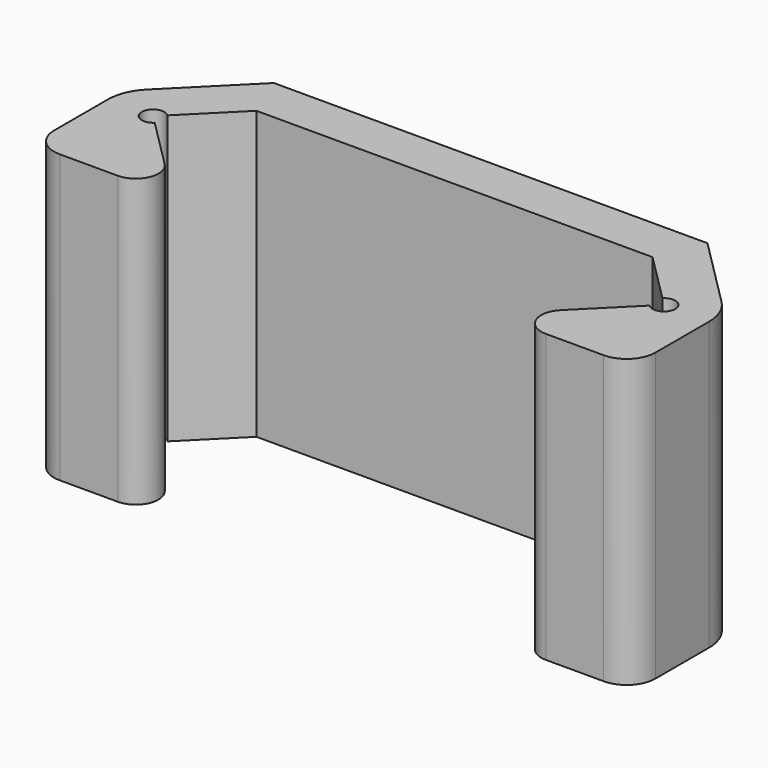
from build123d import *

# Parameters (mm, degrees)
F1_DEPTH = 12.7


with BuildPart() as f1:
    # F0 (on Top) → F1 (new body)
    with BuildSketch(Plane.XY):
        with BuildLine():
            ThreePointArc((0.353553, -0.353553), (-0.5, 0), (0.353553, 0.353553))
            Line((0.353553, 0.353553), (2.54, 2.54))
            Line((2.54, 2.54), (11.696242, 2.54))
            Line((11.696242, 2.54), (20.066, 2.54))
            Line((20.066, 2.54), (22.252447, 0.353553))
            ThreePointArc((22.252447, 0.353553), (23.106, 0), (22.252447, -0.353553))
            Line((22.252447, -0.353553), (20.066, -2.54))
            ThreePointArc((20.066, -2.54), (19.849227, -3.62979), (20.773107, -4.247107))
            Line((20.773107, -4.247107), (23.336, -4.247107))
            ThreePointArc((23.336, -4.247107), (24.234026, -3.875132), (24.606, -2.977107))
            Line((24.606, -2.977107), (24.606, 0))
            ThreePointArc((24.606, 0), (24.453759, 0.765367), (24.020214, 1.414214))
            Line((24.020214, 1.414214), (20.894427, 4.54))
            Line((20.894427, 4.54), (11.696242, 4.54))
            Line((11.696242, 4.54), (1.711573, 4.54))
            Line((1.711573, 4.54), (-1.414214, 1.414214))
            ThreePointArc((-1.414214, 1.414214), (-1.847759, 0.765367), (-2, 0))
            Line((-2, 0), (-2, -2.977107))
            ThreePointArc((-2, -2.977107), (-1.628026, -3.875132), (-0.73, -4.247107))
            Line((-0.73, -4.247107), (1.832893, -4.247107))
            ThreePointArc((1.832893, -4.247107), (2.756773, -3.62979), (2.54, -2.54))
            Line((2.54, -2.54), (0.353553, -0.353553))
        make_face()
    extrude(amount=F1_DEPTH)


solid = f1.part
